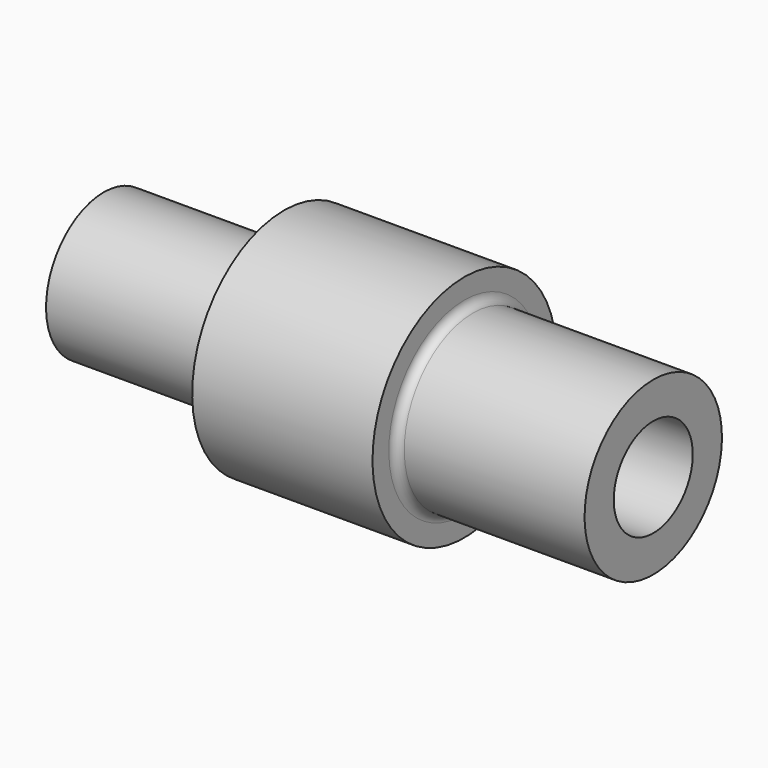
from build123d import *


with BuildPart() as f1:
    # F0 (on Front) → F1 (revolve)
    with BuildSketch(Plane.XZ):
        with BuildLine():
            Line((0, 106.68), (0, 73.025))
            Line((0, 73.025), (812.8, 73.025))
            Line((812.8, 73.025), (812.8, 127))
            Line((812.8, 127), (546.1, 127))
            ThreePointArc((546.1, 127), (537.119744, 130.719744), (533.4, 139.7))
            Line((533.4, 139.7), (533.4, 169.8625))
            Line((533.4, 169.8625), (266.7, 169.8625))
            Line((266.7, 169.8625), (266.7, 93.2796))
            Line((266.7, 93.2796), (254, 93.2796))
            Line((254, 93.2796), (254, 106.68))
            Line((254, 106.68), (0, 106.68))
        make_face()
    revolve(axis=Axis((406.4, 0, 0), (1, 0, 0)))


solid = f1.part
